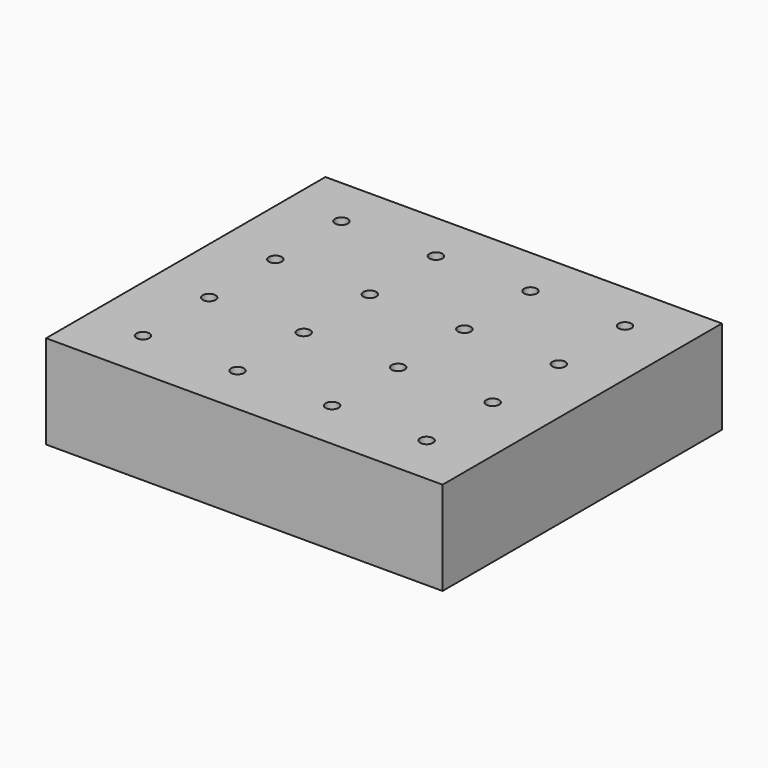
from build123d import *

# Parameters (mm, degrees)
F0_W     = 107.602
F0_H     = 94.75
F0_R     = 1.75
F1_DEPTH = 25.4


with BuildPart() as f1:
    # F0 (on Top) → F1 (new body)
    with BuildSketch(Plane.XY):
        Rectangle(F0_W, F0_H)
        with Locations((-38.47575, -33.65625)):
            Circle(F0_R, mode=Mode.SUBTRACT)
        with Locations((-12.82525, -33.65625)):
            Circle(F0_R, mode=Mode.SUBTRACT)
        with Locations((-38.47575, -11.21875)):
            Circle(F0_R, mode=Mode.SUBTRACT)
        with Locations((-12.82525, -11.21875)):
            Circle(F0_R, mode=Mode.SUBTRACT)
        with Locations((12.82525, -33.65625)):
            Circle(F0_R, mode=Mode.SUBTRACT)
        with Locations((38.47575, -33.65625)):
            Circle(F0_R, mode=Mode.SUBTRACT)
        with Locations((12.82525, -11.21875)):
            Circle(F0_R, mode=Mode.SUBTRACT)
        with Locations((38.47575, -11.21875)):
            Circle(F0_R, mode=Mode.SUBTRACT)
        with Locations((-38.47575, 11.21875)):
            Circle(F0_R, mode=Mode.SUBTRACT)
        with Locations((-12.82525, 11.21875)):
            Circle(F0_R, mode=Mode.SUBTRACT)
        with Locations((-38.47575, 33.65625)):
            Circle(F0_R, mode=Mode.SUBTRACT)
        with Locations((-12.82525, 33.65625)):
            Circle(F0_R, mode=Mode.SUBTRACT)
        with Locations((12.82525, 11.21875)):
            Circle(F0_R, mode=Mode.SUBTRACT)
        with Locations((38.47575, 11.21875)):
            Circle(F0_R, mode=Mode.SUBTRACT)
        with Locations((12.82525, 33.65625)):
            Circle(F0_R, mode=Mode.SUBTRACT)
        with Locations((38.47575, 33.65625)):
            Circle(F0_R, mode=Mode.SUBTRACT)
    extrude(amount=F1_DEPTH)


solid = f1.part
